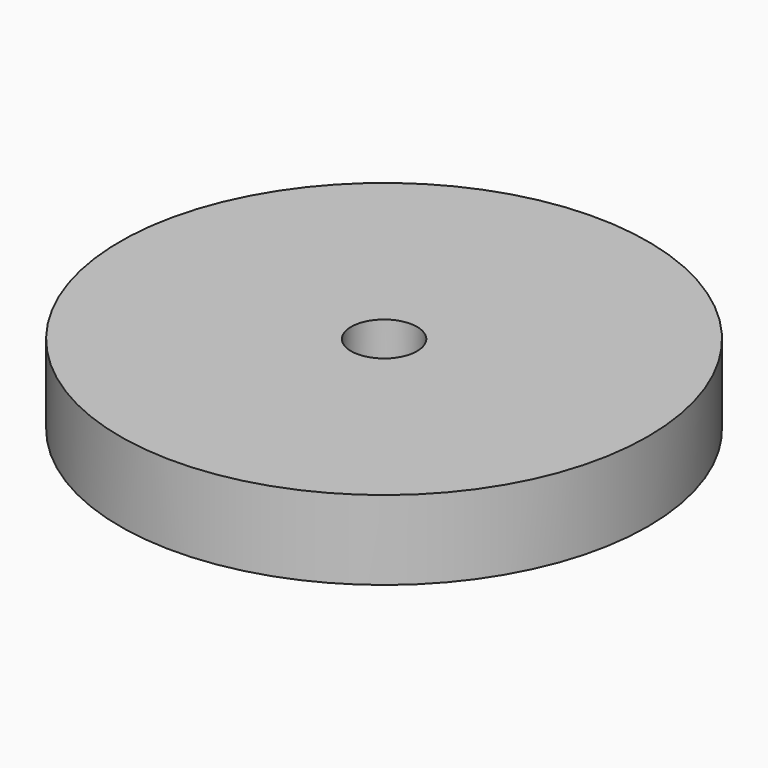
from build123d import *

# Parameters (mm, degrees)
F1_R     = 10
F1_R_2   = 8.5
F1_R_3   = 1.25
F2_DEPTH = 1.5
F3_DEPTH = 1.5


with BuildPart() as f2:
    # F1 (on offset) → F2 (new body)
    with BuildSketch(Plane.XY.offset(10)):
        Circle(F1_R)
        Circle(F1_R_2, mode=Mode.SUBTRACT)
        Circle(F1_R_2)
        Circle(F1_R_3, mode=Mode.SUBTRACT)
    extrude(amount=F2_DEPTH)

    # F1 (on offset) → F3 (join)
    with BuildSketch(Plane.XY.offset(10)):
        Circle(F1_R)
        Circle(F1_R_2, mode=Mode.SUBTRACT)
    extrude(amount=-F3_DEPTH)


solid = f2.part
